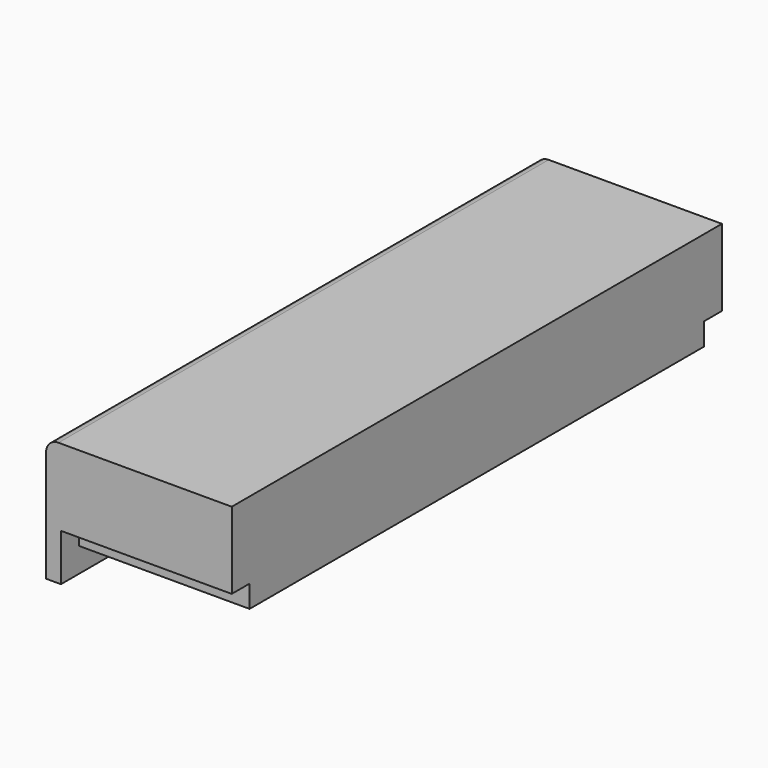
from build123d import *

# Parameters (mm, degrees)
PAD_DEPTH    = 495
SKETCH001_W  = 18
SKETCH001_H  = 18
POCKET_DEPTH = 138
FILLET_R     = 10


with BuildPart() as part:
    # Sketch → Pad (new body)
    with BuildSketch(Plane.XZ):
        Polygon((138, 0), (0, 0), (0, -20), (-12, -20), (-12, 80), (138, 80), align=None)
    extrude(amount=-PAD_DEPTH)

    # Sketch001 (on Face2 of Pad) → Pocket (cut)
    with BuildSketch(Plane(origin=(138, 0, 0), x_dir=(0, 0, 1), z_dir=(1, 0, 0))):
        with Locations((9, -9)):
            Rectangle(SKETCH001_W, SKETCH001_H)
        with Locations((9, -486)):
            Rectangle(SKETCH001_W, SKETCH001_H)
    extrude(amount=-POCKET_DEPTH, mode=Mode.SUBTRACT)

    # Fillet
    fillet_edges = [part.edges().sort_by_distance(p)[0] for p in [
        (-12, 247.5, 80),
    ]]
    fillet(fillet_edges, radius=FILLET_R)


solid = part.part
